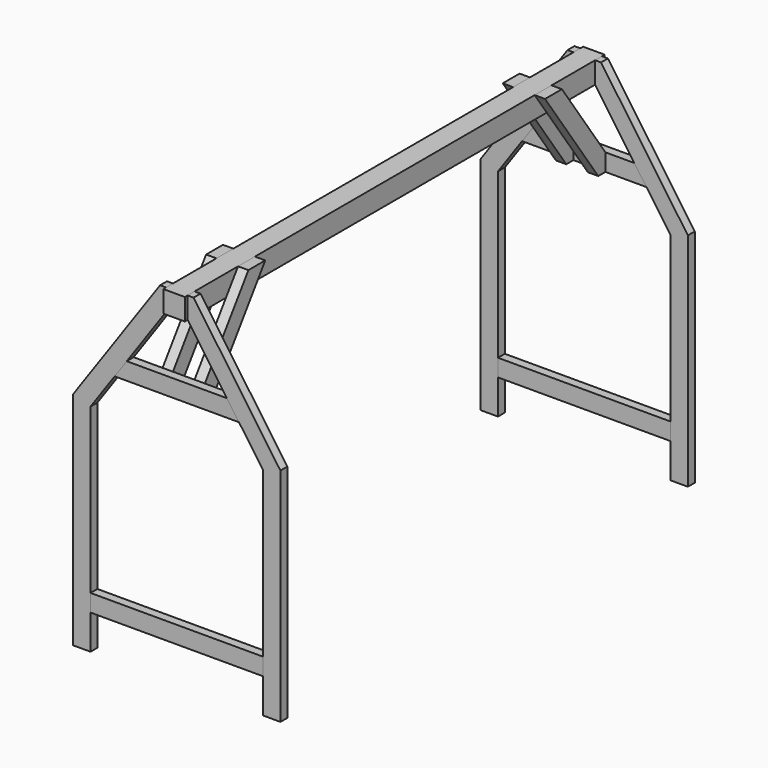
from build123d import *

# Parameters (mm, degrees)
F1_DEPTH      = 50
F4_DEPTH      = 50
F5_W          = 125
F5_H          = 125
F6_DEPTH      = 3020
F6_DEPTH_BACK = 20
F7_W          = 1000
F7_H          = 100
F8_DEPTH      = 50
F9_W          = 1000
F9_H          = 100
F10_DEPTH     = 50
F12_DEPTH     = 60
F14_DEPTH     = 60


with BuildPart() as f1:
    # F0 (on Front) → F1 (new body)
    with BuildSketch(Plane.XZ):
        Polygon((0, 2000), (-97.051517, 2000), (-600, 1281.715126), (-600, 0), (-500, 0), (-500, 1250.185247), (-62.5, 1875), (0, 1875), (62.5, 1875), (500, 1250.185247), (500, 0), (600, 0), (600, 1281.715126), (97.051517, 2000), align=None)
    extrude(amount=F1_DEPTH)


with BuildPart() as f4:
    # F3 (on offset) → F4 (new body)
    with BuildSketch(Plane.XZ.offset(3000)):
        Polygon((-500, 1250.185247), (-62.5, 1875), (62.5, 1875), (500, 1250.185247), (500, 0), (600, 0), (600, 1281.715126), (97.051517, 2000), (-97.051517, 2000), (-600, 1281.715126), (-600, 0), (-500, 0), align=None)
    extrude(amount=-F4_DEPTH)


with BuildPart() as f6:
    # F5 (on Front) → F6 (new body, two sides)
    with BuildSketch(Plane.XZ) as f6_sk:
        with Locations((0, 1937.5)):
            Rectangle(F5_W, F5_H)
    extrude(amount=F6_DEPTH)
    extrude(f6_sk.sketch, amount=-F6_DEPTH_BACK)


with BuildPart() as f8:
    # F7 (on offset) → F8 (new body)
    with BuildSketch(Plane.XZ.offset(3000)):
        Polygon((-290.06745, 1550), (-360.088204, 1450), (360.088204, 1450), (290.06745, 1550), align=None)
        with Locations((0, 250)):
            Rectangle(F7_W, F7_H)
    extrude(amount=-F8_DEPTH)


with BuildPart() as f10:
    # F9 (on Front) → F10 (new body)
    with BuildSketch(Plane.XZ):
        with Locations((0, 250)):
            Rectangle(F9_W, F9_H)
        Polygon((360.088204, 1450), (290.06745, 1550), (-290.06745, 1550), (-360.088204, 1450), align=None)
    extrude(amount=F10_DEPTH)


with BuildPart() as f12:
    # F11 (on face) → F12 (new body)
    with BuildSketch(Plane.YZ.offset(62.5)):
        Polygon((-2634.906608, 2000), (-2950, 1550), (-2950, 1450), (-2897.943295, 1450), (-2512.829149, 2000), align=None)
        Polygon((-50, 1550), (-365.093392, 2000), (-487.170851, 2000), (-102.056705, 1450), (-50, 1450), align=None)
    extrude(amount=F12_DEPTH)


with BuildPart() as f14:
    # F13 (on face) → F14 (new body)
    with BuildSketch(Plane(origin=(-62.5, 0, 0), x_dir=(0, -1, 0), z_dir=(-1, 0, 0))):
        Polygon((50, 1550), (50, 1450), (102.056705, 1450), (487.170851, 2000), (365.093392, 2000), align=None)
        Polygon((2512.829149, 2000), (2897.943295, 1450), (2950, 1450), (2950, 1550), (2634.906608, 2000), align=None)
    extrude(amount=F14_DEPTH)


solid = Compound([f1.part, f4.part, f6.part, f8.part, f10.part, f12.part, f14.part])
